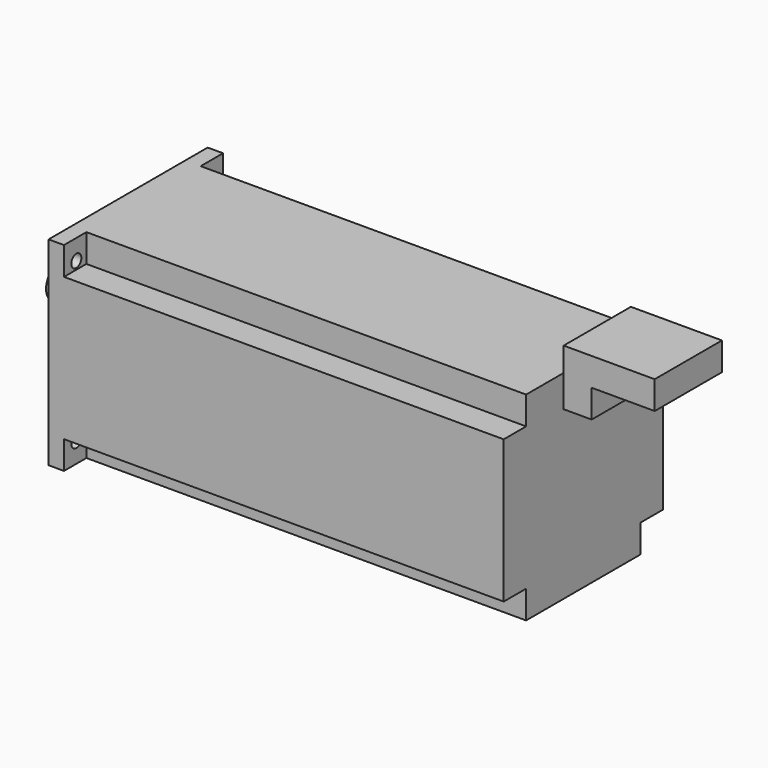
from build123d import *

# Parameters (mm, degrees)
F1_DEPTH = 314
F6_W     = 142
F6_H     = 142
F6_R     = 4.5
F2_DEPTH = 11
F3_R     = 12
F7_DEPTH = 60
F8_R     = 65
F4_DEPTH = 15
F5_DEPTH = 30


with BuildPart() as f1:
    # F0 (on Right) → F1 (new body)
    with BuildSketch(Plane.YZ):
        Polygon((-51, -51), (-51, -71), (51, -71), (51, -51), (71, -51), (71, 51), (51, 51), (51, 71), (-51, 71), (-51, 51), (-71, 51), (-71, -51), align=None)
    extrude(amount=F1_DEPTH)

    # F6 (on Right) → F2 (join)
    with BuildSketch(Plane.YZ):
        Rectangle(F6_W, F6_H)
        with Locations((-60, -56.623758)):
            Circle(F6_R, mode=Mode.SUBTRACT)
        with Locations((60, -56.623758)):
            Circle(F6_R, mode=Mode.SUBTRACT)
        with Locations((-60, 56.623758)):
            Circle(F6_R, mode=Mode.SUBTRACT)
        with Locations((60, 56.623758)):
            Circle(F6_R, mode=Mode.SUBTRACT)
    extrude(amount=-F2_DEPTH)


with BuildPart() as f7:
    # F3 (on Right) → F7 (new body)
    with BuildSketch(Plane.YZ):
        Circle(F3_R)
    extrude(amount=-F7_DEPTH)


with BuildPart() as f4:
    # F8 (on Right) → F4 (new body)
    with BuildSketch(Plane.YZ):
        Circle(F8_R)
    extrude(amount=-F4_DEPTH)


with BuildPart() as f5:
    # F9 (on Front) → F5 (new body, symmetric)
    with BuildSketch(Plane.XZ):
        Polygon((324, 76.5), (324, 56.5), (344, 56.5), (344, 76.5), (389, 76.5), (389, 96.5), (324, 96.5), align=None)
    extrude(amount=F5_DEPTH, both=True)


solid = Compound([f1.part, f7.part, f4.part, f5.part])
